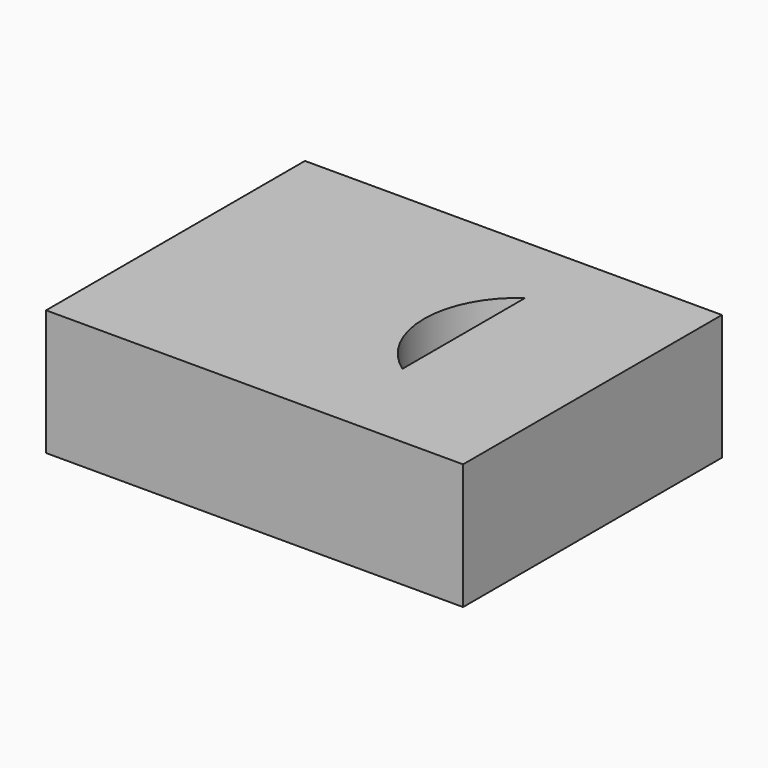
from build123d import *

# Parameters (mm, degrees)
F0_W     = 26.5465844423
F0_H     = 20.5983864143
F1_DEPTH = 8
F3_DEPTH = 5


with BuildPart() as f1:
    # F0 (on Top) → F1 (new body)
    with BuildSketch(Plane.XY):
        with Locations((0.9913658723, 0.4406073131)):
            Rectangle(F0_W, F0_H)
    extrude(amount=F1_DEPTH)

    # F2 (on face) → F3 (cut)
    with BuildSketch(Plane.XY.offset(8)):
        with BuildLine():
            Line((5.4850756781, -3.7146802789), (5.4850756781, 6.0527105816))
            ThreePointArc((5.4850756781, 6.0527105816), (2.9606062789, 1.1690151513), (5.4850756781, -3.7146802789))
        make_face()
    extrude(amount=-F3_DEPTH, mode=Mode.SUBTRACT)

    # F3_face (on face) → F4 (revolve, cut)
    with BuildSketch(Plane(origin=(4.4544747215, 1.1690151513, 3), x_dir=(1, 0, 0), z_dir=(0, 0, 1))):
        with BuildLine():
            ThreePointArc((1.0306009566, 4.8836954302), (-1.4938684426, 0), (1.0306009566, -4.8836954302))
            Line((1.0306009566, -4.8836954302), (1.0306009566, 4.8836954302))
        make_face()
    revolve(axis=Axis((5.4850756781, 1.1690151513, 3), (0, 1, 0)), mode=Mode.SUBTRACT)


solid = f1.part
